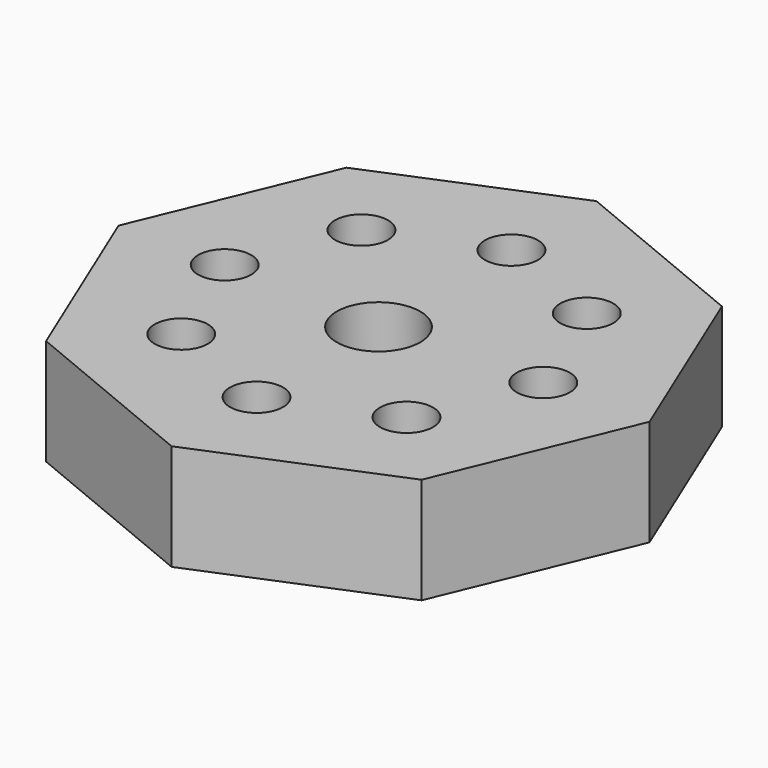
from build123d import *

# Parameters (mm, degrees)
F0_R     = 6.35
F1_DEPTH = 25.4
F2_R     = 9.978597
F3_DEPTH = 25.4


with BuildPart() as f1:
    # F0 (on Top) → F1 (new body)
    with BuildSketch(Plane.XY):
        Polygon((44.901281, -44.901281), (63.5, 0), (44.901281, 44.901281), (0, 63.5), (-44.901281, 44.901281), (-63.5, 0), (-44.901281, -44.901281), (0, -63.5), align=None)
        with Locations((-26.940768, -26.940768)):
            Circle(F0_R, mode=Mode.SUBTRACT)
        with Locations((0, -38.1)):
            Circle(F0_R, mode=Mode.SUBTRACT)
        with Locations((26.940768, -26.940768)):
            Circle(F0_R, mode=Mode.SUBTRACT)
        with Locations((-38.1, 0)):
            Circle(F0_R, mode=Mode.SUBTRACT)
        with Locations((-26.940768, 26.940768)):
            Circle(F0_R, mode=Mode.SUBTRACT)
        with Locations((26.940768, 26.940768)):
            Circle(F0_R, mode=Mode.SUBTRACT)
        with Locations((38.1, 0)):
            Circle(F0_R, mode=Mode.SUBTRACT)
        with Locations((0, 38.1)):
            Circle(F0_R, mode=Mode.SUBTRACT)
    extrude(amount=F1_DEPTH)

    # F2 (on face) → F3 (cut)
    with BuildSketch(Plane.XY.offset(25.4)):
        with Locations((0, -1.644041)):
            Circle(F2_R)
    extrude(amount=-F3_DEPTH, mode=Mode.SUBTRACT)


solid = f1.part
